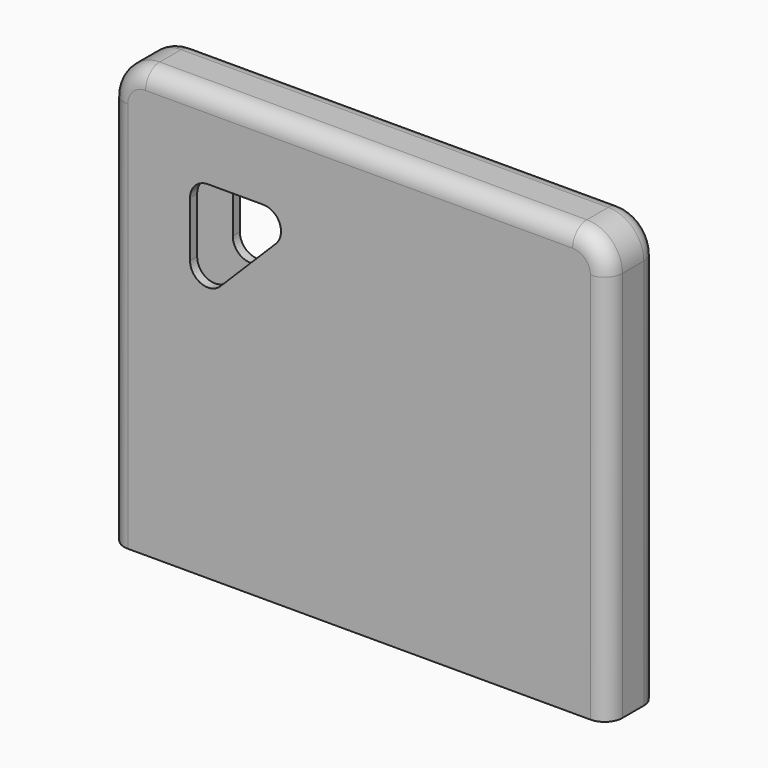
from build123d import *

# Parameters (mm, degrees)
F1_DEPTH = 0.5
F2_DEPTH = 1.25
F5_R     = 1


with BuildPart() as f1:
    # F0 (on Front) → F1 (new body)
    with BuildSketch(Plane.XZ):
        with BuildLine():
            Line((-50.8593195975, 0), (-50.8593195975, -19))
            Line((-50.8593195975, -19), (-49.8593195975, -19))
            Line((-49.8593195975, -19), (-49.8593195975, 3))
            ThreePointArc((-49.8593195975, 3), (-49.5664263787, 3.7071067812), (-48.8593195975, 4))
            Line((-48.8593195975, 4), (-24.8593195975, 4))
            ThreePointArc((-24.8593195975, 4), (-24.1522128163, 3.7071067812), (-23.8593195975, 3))
            Line((-23.8593195975, 3), (-23.8593195975, -19))
            Line((-23.8593195975, -19), (-22.8593195975, -19))
            Line((-22.8593195975, -19), (-22.8593195975, 0))
            Line((-22.8593195975, 0), (-22.8593195975, 3))
            ThreePointArc((-22.8593195975, 3), (-23.4451060351, 4.4142135624), (-24.8593195975, 5))
            Line((-24.8593195975, 5), (-27.8593195975, 5))
            Line((-27.8593195975, 5), (-45.8593195975, 5))
            Line((-45.8593195975, 5), (-48.8593195975, 5))
            ThreePointArc((-48.8593195975, 5), (-50.2735331599, 4.4142135624), (-50.8593195975, 3))
            Line((-50.8593195975, 3), (-50.8593195975, 0))
        make_face()
        with BuildLine():
            Line((-49.8593195975, 3), (-49.8593195975, -19))
            Line((-49.8593195975, -19), (-23.8593195975, -19))
            Line((-23.8593195975, -19), (-23.8593195975, 3))
            ThreePointArc((-23.8593195975, 3), (-24.1522128163, 3.7071067812), (-24.8593195975, 4))
            Line((-24.8593195975, 4), (-48.8593195975, 4))
            ThreePointArc((-48.8593195975, 4), (-49.5664263787, 3.7071067812), (-49.8593195975, 3))
        make_face()
        with BuildLine():
            Line((-41.5405858453, -1.2071067812), (-44.6522128163, -4.3187337522))
            ThreePointArc((-44.6522128163, -4.3187337522), (-45.7420030298, -4.5355065035), (-46.3593195975, -3.611626971))
            Line((-46.3593195975, -3.611626971), (-46.3593195975, -0.5))
            ThreePointArc((-46.3593195975, -0.5), (-46.0664263787, 0.2071067812), (-45.3593195975, 0.5))
            Line((-45.3593195975, 0.5), (-42.2476926265, 0.5))
            ThreePointArc((-42.2476926265, 0.5), (-41.323813094, -0.1173165676), (-41.5405858453, -1.2071067812))
        make_face(mode=Mode.SUBTRACT)
    extrude(amount=F1_DEPTH)

    # F0 (on Front) → F2 (join)
    with BuildSketch(Plane.XZ):
        with BuildLine():
            Line((-50.8593195975, 0), (-50.8593195975, -19))
            Line((-50.8593195975, -19), (-49.8593195975, -19))
            Line((-49.8593195975, -19), (-49.8593195975, 3))
            ThreePointArc((-49.8593195975, 3), (-49.5664263787, 3.7071067812), (-48.8593195975, 4))
            Line((-48.8593195975, 4), (-24.8593195975, 4))
            ThreePointArc((-24.8593195975, 4), (-24.1522128163, 3.7071067812), (-23.8593195975, 3))
            Line((-23.8593195975, 3), (-23.8593195975, -19))
            Line((-23.8593195975, -19), (-22.8593195975, -19))
            Line((-22.8593195975, -19), (-22.8593195975, 0))
            Line((-22.8593195975, 0), (-22.8593195975, 3))
            ThreePointArc((-22.8593195975, 3), (-23.4451060351, 4.4142135624), (-24.8593195975, 5))
            Line((-24.8593195975, 5), (-27.8593195975, 5))
            Line((-27.8593195975, 5), (-45.8593195975, 5))
            Line((-45.8593195975, 5), (-48.8593195975, 5))
            ThreePointArc((-48.8593195975, 5), (-50.2735331599, 4.4142135624), (-50.8593195975, 3))
            Line((-50.8593195975, 3), (-50.8593195975, 0))
        make_face()
    extrude(amount=-F2_DEPTH)

    # F4: F1 across plane


with BuildPart() as f1_1:
    add(f1.part)
    add(f1.part.mirror(Plane(origin=(-36.8593195975, 1.25, -3.0970811102), x_dir=(1, 0, 0), z_dir=(0, 1, 0))))

    # F5
    f5_edges = [f1_1.edges().sort_by_distance(p)[0] for p in [
        (-50.85932, 3, -8),
        (-50.85932, -0.5, -8),
    ]]
    fillet(f5_edges, radius=F5_R)


solid = f1_1.part
